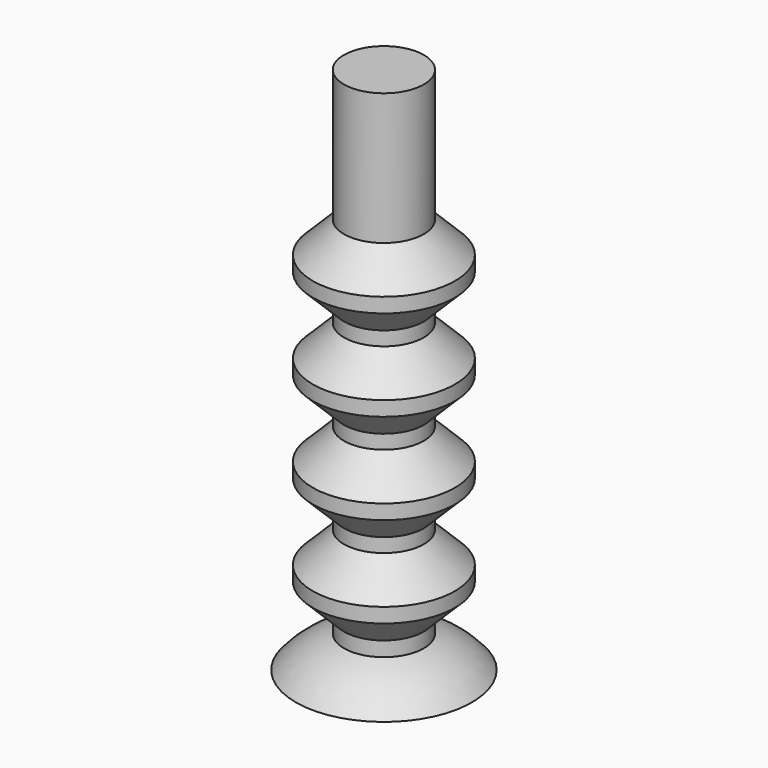
from build123d import *


with BuildPart() as f1:
    # F0 (on Front) → F1 (revolve)
    with BuildSketch(Plane.XZ):
        with BuildLine():
            Line((0, -105.212546), (0, 123.387454))
            Line((0, 123.387454), (-17.287159, 123.387454))
            Line((-17.287159, 123.387454), (-17.287159, 72.718156))
            Line((-17.287159, 72.718156), (-17.287159, 66.368156))
            Line((-17.287159, 66.368156), (-30.758225, 52.89709))
            Line((-30.758225, 52.89709), (-30.758225, 46.54709))
            Line((-30.758225, 46.54709), (-17.287159, 33.076024))
            Line((-17.287159, 33.076024), (-17.287159, 26.998156))
            Line((-17.287159, 26.998156), (-30.758225, 13.52709))
            Line((-30.758225, 13.52709), (-30.758225, 7.17709))
            Line((-30.758225, 7.17709), (-17.287159, -6.293976))
            Line((-17.287159, -6.293976), (-17.287159, -12.371844))
            Line((-17.287159, -12.371844), (-30.758225, -25.84291))
            Line((-30.758225, -25.84291), (-30.758225, -32.19291))
            Line((-30.758225, -32.19291), (-17.287159, -45.663976))
            Line((-17.287159, -45.663976), (-17.287159, -51.741844))
            Line((-17.287159, -51.741844), (-30.758225, -65.21291))
            Line((-30.758225, -65.21291), (-30.758225, -71.56291))
            Line((-30.758225, -71.56291), (-17.287159, -85.033976))
            Line((-17.287159, -85.033976), (-17.287159, -91.383976))
            ThreePointArc((-17.287159, -91.383976), (-28.722438, -96.749767), (-38.1, -105.212546))
            Line((-38.1, -105.212546), (0, -105.212546))
        make_face()
    revolve(axis=Axis((0, 0, 9.087454), (0, 0, -1)))


solid = f1.part
